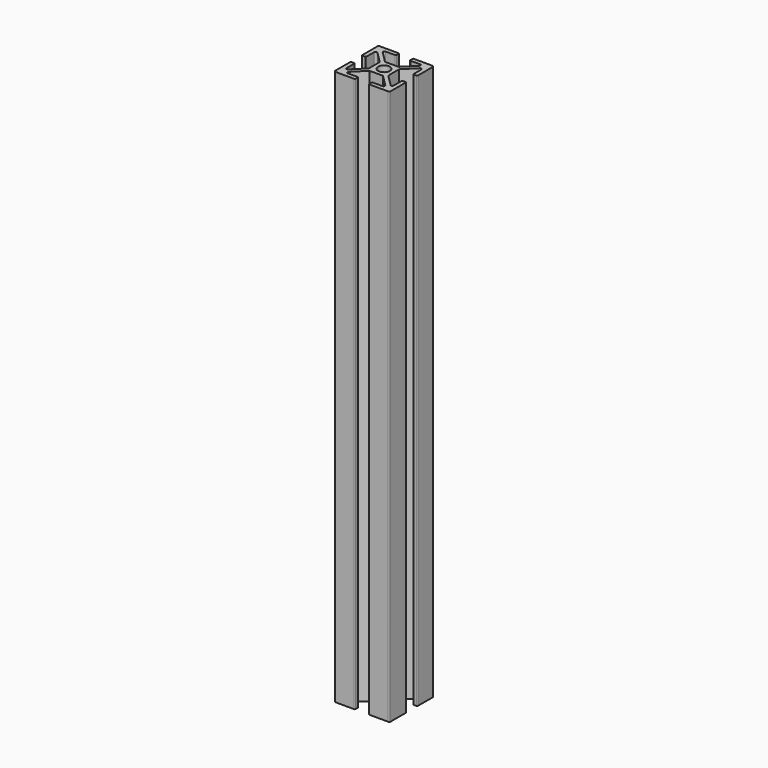
from build123d import *

# Parameters (mm, degrees)
F0_R     = 2.1
F1_DEPTH = 200
F2_R     = 2.1
F3_DEPTH = 7


with BuildPart() as f1:
    # F0 (on Top) → F1 (new body)
    with BuildSketch(Plane.XY):
        with BuildLine():
            ThreePointArc((-3.308023, 10.226634), (-3.381246, 10.403411), (-3.558023, 10.476634))
            Line((-3.558023, 10.476634), (-10.308023, 10.476634))
            ThreePointArc((-10.308023, 10.476634), (-10.499365, 10.438574), (-10.661577, 10.330188))
            ThreePointArc((-10.661577, 10.330188), (-10.769963, 10.167976), (-10.808023, 9.976634))
            Line((-10.808023, 9.976634), (-10.808023, 3.226634))
            ThreePointArc((-10.808023, 3.226634), (-10.7348, 3.049858), (-10.558023, 2.976634))
            Line((-10.558023, 2.976634), (-9.555049, 2.976634))
            ThreePointArc((-9.555049, 2.976634), (-9.378272, 3.049858), (-9.305049, 3.226634))
            Line((-9.305049, 3.226634), (-9.305049, 6.654412))
            ThreePointArc((-9.305049, 6.654412), (-9.024273, 7.159685), (-8.45447, 7.062421))
            Line((-8.45447, 7.062421), (-4.381246, 2.989198))
            ThreePointArc((-4.381246, 2.989198), (-4.327053, 2.908092), (-4.308023, 2.812421))
            Line((-4.308023, 2.812421), (-4.308023, -1.859152))
            ThreePointArc((-4.308023, -1.859152), (-4.327053, -1.954823), (-4.381246, -2.035929))
            Line((-4.381246, -2.035929), (-8.45447, -6.109152))
            ThreePointArc((-8.45447, -6.109152), (-8.999365, -6.217538), (-9.308023, -5.755599))
            Line((-9.308023, -5.755599), (-9.308023, -2.273366))
            ThreePointArc((-9.308023, -2.273366), (-9.381246, -2.096589), (-9.558023, -2.023366))
            Line((-9.558023, -2.023366), (-10.558023, -2.023366))
            ThreePointArc((-10.558023, -2.023366), (-10.7348, -2.096589), (-10.808023, -2.273366))
            Line((-10.808023, -2.273366), (-10.808023, -9.023366))
            ThreePointArc((-10.808023, -9.023366), (-10.769963, -9.214707), (-10.661577, -9.376919))
            ThreePointArc((-10.661577, -9.376919), (-10.508248, -9.481525), (-10.327327, -9.522993))
            Line((-10.327327, -9.522993), (-3.544376, -9.522993))
            ThreePointArc((-3.544376, -9.522993), (-3.376486, -9.44525), (-3.308023, -9.273366))
            Line((-3.308023, -9.273366), (-3.308023, -8.273366))
            ThreePointArc((-3.308023, -8.273366), (-3.381246, -8.096589), (-3.558023, -8.023366))
            Line((-3.558023, -8.023366), (-7.040256, -8.023366))
            ThreePointArc((-7.040256, -8.023366), (-7.502196, -7.714707), (-7.39381, -7.169812))
            Line((-7.39381, -7.169812), (-3.320586, -3.096589))
            ThreePointArc((-3.320586, -3.096589), (-3.23948, -3.042396), (-3.14381, -3.023366))
            Line((-3.14381, -3.023366), (1.527763, -3.023366))
            ThreePointArc((1.527763, -3.023366), (1.623434, -3.042396), (1.70454, -3.096589))
            Line((1.70454, -3.096589), (5.777763, -7.169812))
            ThreePointArc((5.777763, -7.169812), (5.88615, -7.714707), (5.42421, -8.023366))
            Line((5.42421, -8.023366), (1.95454, -8.023366))
            ThreePointArc((1.95454, -8.023366), (1.777763, -8.096589), (1.70454, -8.273366))
            Line((1.70454, -8.273366), (1.70454, -9.273366))
            ThreePointArc((1.70454, -9.273366), (1.773002, -9.44525), (1.940893, -9.522993))
            Line((1.940893, -9.522993), (8.711281, -9.522993))
            ThreePointArc((8.711281, -9.522993), (8.892202, -9.481525), (9.04553, -9.376919))
            ThreePointArc((9.04553, -9.376919), (9.141878, -9.241515), (9.188525, -9.082012))
            Line((9.188525, -9.082012), (9.188525, -2.231968))
            ThreePointArc((9.188525, -2.231968), (9.103455, -2.082513), (8.941977, -2.023366))
            Line((8.941977, -2.023366), (7.941977, -2.023366))
            ThreePointArc((7.941977, -2.023366), (7.7652, -2.096589), (7.691977, -2.273366))
            Line((7.691977, -2.273366), (7.691977, -5.755599))
            ThreePointArc((7.691977, -5.755599), (7.383319, -6.217538), (6.838423, -6.109152))
            Line((6.838423, -6.109152), (2.7652, -2.035929))
            ThreePointArc((2.7652, -2.035929), (2.711007, -1.954823), (2.691977, -1.859152))
            Line((2.691977, -1.859152), (2.691977, 2.812421))
            ThreePointArc((2.691977, 2.812421), (2.711007, 2.908092), (2.7652, 2.989198))
            Line((2.7652, 2.989198), (6.838423, 7.062421))
            ThreePointArc((6.838423, 7.062421), (7.383319, 7.170807), (7.691977, 6.708867))
            Line((7.691977, 6.708867), (7.691977, 3.226634))
            ThreePointArc((7.691977, 3.226634), (7.7652, 3.049858), (7.941977, 2.976634))
            Line((7.941977, 2.976634), (8.941977, 2.976634))
            ThreePointArc((8.941977, 2.976634), (9.103455, 3.035782), (9.188525, 3.185237))
            Line((9.188525, 3.185237), (9.188525, 10.035281))
            ThreePointArc((9.188525, 10.035281), (9.141878, 10.194784), (9.04553, 10.330188))
            ThreePointArc((9.04553, 10.330188), (8.883319, 10.438574), (8.691977, 10.476634))
            Line((8.691977, 10.476634), (1.941977, 10.476634))
            ThreePointArc((1.941977, 10.476634), (1.7652, 10.403411), (1.691977, 10.226634))
            Line((1.691977, 10.226634), (1.691977, 9.226634))
            ThreePointArc((1.691977, 9.226634), (1.695138, 9.187006), (1.70454, 9.14838))
            ThreePointArc((1.70454, 9.14838), (1.795456, 9.024071), (1.941977, 8.976634))
            Line((1.941977, 8.976634), (5.42421, 8.976634))
            ThreePointArc((5.42421, 8.976634), (5.88615, 8.667976), (5.777763, 8.123081))
            Line((5.777763, 8.123081), (1.70454, 4.049858))
            ThreePointArc((1.70454, 4.049858), (1.623434, 3.995664), (1.527763, 3.976634))
            Line((1.527763, 3.976634), (-3.14381, 3.976634))
            ThreePointArc((-3.14381, 3.976634), (-3.23948, 3.995664), (-3.320586, 4.049858))
            Line((-3.320586, 4.049858), (-7.39381, 8.123081))
            ThreePointArc((-7.39381, 8.123081), (-7.502196, 8.667976), (-7.040256, 8.976634))
            Line((-7.040256, 8.976634), (-3.558023, 8.976634))
            ThreePointArc((-3.558023, 8.976634), (-3.381246, 9.049858), (-3.308023, 9.226634))
            Line((-3.308023, 9.226634), (-3.308023, 9.726634))
            Line((-3.308023, 9.726634), (-3.308023, 10.226634))
        make_face()
        with Locations((-0.808023, 0.476634)):
            Circle(F0_R, mode=Mode.SUBTRACT)
    extrude(amount=F1_DEPTH)

    # F2 (on face) → F3 (cut)
    with BuildSketch(Plane.YZ.offset(2.691977)):
        with Locations((0.476634, 79.99858)):
            Circle(F2_R)
    extrude(amount=-F3_DEPTH, mode=Mode.SUBTRACT)


solid = f1.part
